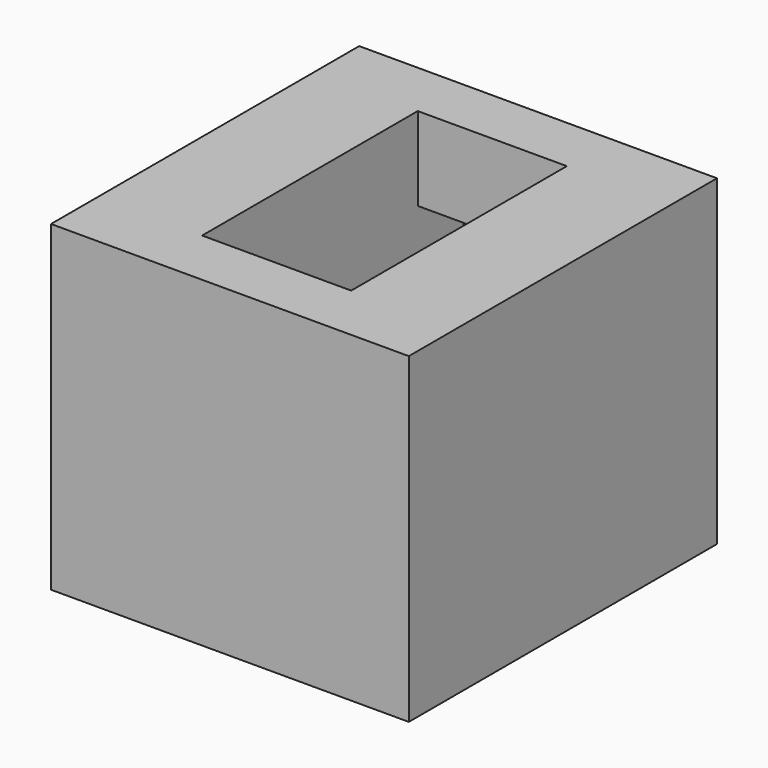
from build123d import *

# Parameters (mm, degrees)
F1_W     = 30
F1_H     = 32.3
F2_DEPTH = 7
F0_W     = 12.5
F0_H     = 22.6
F3_DEPTH = 7
F4_W     = 8.75
F4_H     = 4.9
F4_W_2   = 12.5
F4_H_2   = 22.6
F4_H_3   = 4.8
F5_DEPTH = 20


with BuildPart() as f2:
    # F1 (on Top) → F2 (new body)
    with BuildSketch(Plane.XY):
        with Locations((6.25, 11.25)):
            Rectangle(F1_W, F1_H)
    extrude(amount=F2_DEPTH)

    # F0 (on Top) → F3 (cut)
    with BuildSketch(Plane.XY):
        with Locations((6.25, 11.3)):
            Rectangle(F0_W, F0_H)
    extrude(amount=F3_DEPTH, mode=Mode.SUBTRACT)

    # F4 (on Top) → F5 (join)
    with BuildSketch(Plane.XY):
        with Locations((-4.375, -2.45)):
            Rectangle(F4_W, F4_H)
        with Locations((6.25, -2.45)):
            Rectangle(F4_W_2, F4_H)
        with Locations((-4.375, 11.3)):
            Rectangle(F4_W, F4_H_2)
        with Locations((-4.375, 25)):
            Rectangle(F4_W, F4_H_3)
        with Locations((16.875, 11.3)):
            Rectangle(F4_W, F4_H_2)
        with Locations((16.875, -2.45)):
            Rectangle(F4_W, F4_H)
        with Locations((16.875, 25)):
            Rectangle(F4_W, F4_H_3)
    extrude(amount=-F5_DEPTH)


solid = f2.part
